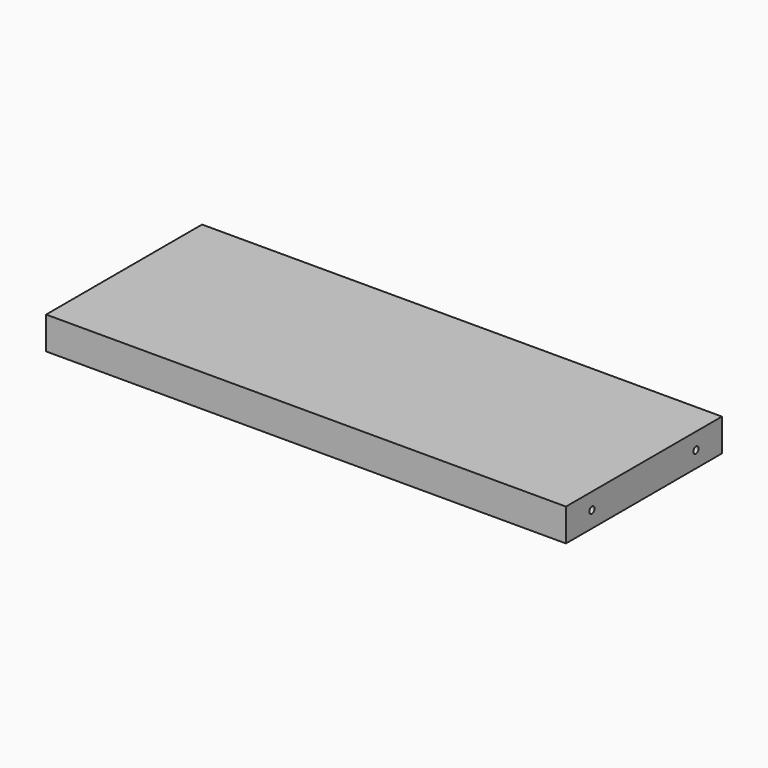
from build123d import *

# Parameters (mm, degrees)
F0_W     = 400
F0_H     = 150
F1_DEPTH = 25
F3_D     = 5
F3_DEPTH = 20
F3_TIP   = 1.5021515476
F5_D     = 5
F5_DEPTH = 20
F5_TIP   = 1.5021515476


with BuildPart() as f1:
    # F0 (on Top) → F1 (new body)
    with BuildSketch(Plane.XY):
        with Locations((200, -75)):
            Rectangle(F0_W, F0_H)
    extrude(amount=F1_DEPTH)

    # F3
    with Locations(Plane(origin=(0, 0, 0), x_dir=(0, -1, 0), z_dir=(-1, 0, 0))):
        with Locations((25, 12.5), (125, 12.5)):
            Hole(F3_D / 2, depth=F3_DEPTH)
            with Locations((0, 0, -(F3_DEPTH + F3_TIP / 2))):  # 118° drill point
                Cone(0, F3_D / 2, F3_TIP, mode=Mode.SUBTRACT)

    # F5
    with Locations(Plane.YZ.offset(400)):
        with Locations((-125, 12.5), (-25, 12.5)):
            Hole(F5_D / 2, depth=F5_DEPTH)
            with Locations((0, 0, -(F5_DEPTH + F5_TIP / 2))):  # 118° drill point
                Cone(0, F5_D / 2, F5_TIP, mode=Mode.SUBTRACT)


solid = f1.part
